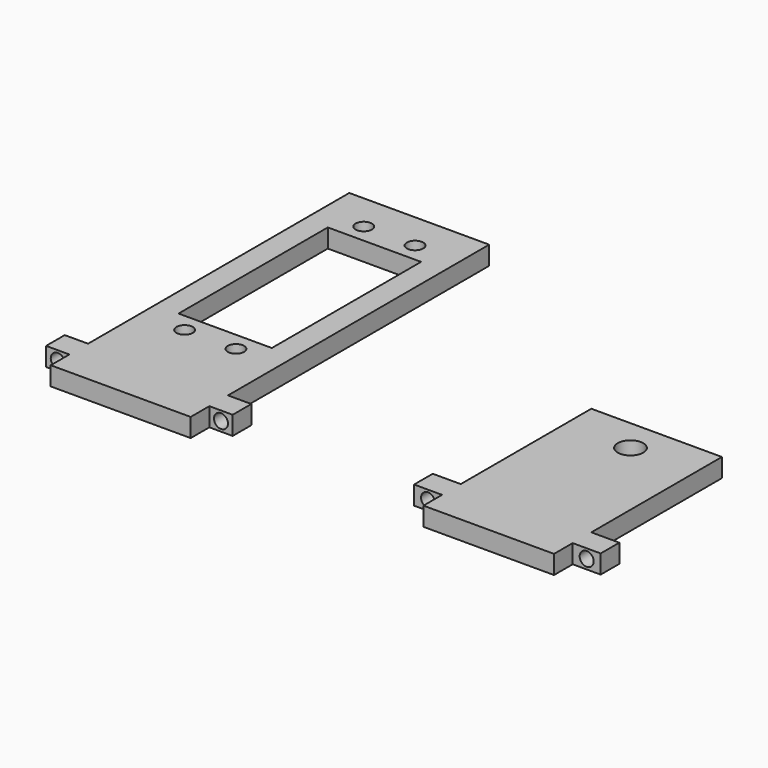
from build123d import *

# Parameters (mm, degrees)
F0_W            = 30
F0_H            = 70
F0_W_2          = 20
F0_H_2          = 40
F0_H_3          = 5
F0_W_3          = 5
F1_DEPTH        = 4
F4_D            = 3
F4_DEPTH        = 20
F4_TIP          = 0.9012909285
F4_ON_F3_D      = 3
F4_ON_F3_DEPTH  = 20
F4_ON_F3_TIP    = 0.9012909285
F5_D            = 3.5
F6_W            = 28
F6_H            = 5
F6_W_2          = 6
F6_H_2          = 35
F7_DEPTH        = 4
F10_D           = 3
F10_DEPTH       = 20
F10_TIP         = 0.9012909285
F10_ON_F9_D     = 3
F10_ON_F9_DEPTH = 20
F10_ON_F9_TIP   = 0.9012909285
F11_D           = 5.5
F11_DEPTH       = 20
F11_TIP         = 1.6523667023


with BuildPart() as f1:
    # F0 (on Top) → F1 (new body)
    with BuildSketch(Plane.XY):
        with Locations((-44.1506063403, 12.4535401911)):
            Rectangle(F0_W, F0_H)
        with Locations((-44.1506063403, 15.4535401911)):
            Rectangle(F0_W_2, F0_H_2, mode=Mode.SUBTRACT)
        with Locations((-44.1506063403, -25.0464598089)):
            Rectangle(F0_W, F0_H_3)
        with Locations((-61.6506063403, -25.0464598089)):
            Rectangle(F0_W_3, F0_H_3)
        with Locations((-44.1506063403, -30.0464598089)):
            Rectangle(F0_W, F0_H_3)
        with Locations((-26.6506063403, -25.0464598089)):
            Rectangle(F0_W_3, F0_H_3)
    extrude(amount=F1_DEPTH)

    # F4
    with Locations(Plane.XZ.offset(27.5464598089)):
        with Locations((-61.6506063403, 2)):
            Hole(F4_D / 2, depth=F4_DEPTH)
            with Locations((0, 0, -(F4_DEPTH + F4_TIP / 2))):  # 118° drill point
                Cone(0, F4_D / 2, F4_TIP, mode=Mode.SUBTRACT)

    # F4 on F3
    with Locations(Plane.XZ.offset(27.5464598089)):
        with Locations((-26.6506063403, 2)):
            Hole(F4_ON_F3_D / 2, depth=F4_ON_F3_DEPTH)
            with Locations((0, 0, -(F4_ON_F3_DEPTH + F4_ON_F3_TIP / 2))):  # 118° drill point
                Cone(0, F4_ON_F3_D / 2, F4_ON_F3_TIP, mode=Mode.SUBTRACT)

    # F5 (through all)
    with Locations(Plane(origin=(0, 0, 0), x_dir=(1, 0, 0), z_dir=(0, 0, -1))):
        with Locations((-49.6506063403, -39.4535401911), (-38.6506063403, -39.4535401911), (-49.6506063403, 8.5464598089), (-38.6506063403, 8.5464598089)):
            Hole(F5_D / 2)


with BuildPart() as f7:
    # F6 (on Top) → F7 (new body)
    with BuildSketch(Plane.XY):
        with Locations((35.3638151288, -30.8164446056)):
            Rectangle(F6_W, F6_H)
        with Locations((18.3638151288, -25.8164446056)):
            Rectangle(F6_W_2, F6_H)
        with Locations((35.3638151288, -25.8164446056)):
            Rectangle(F6_W, F6_H)
        with Locations((52.3638151288, -25.8164446056)):
            Rectangle(F6_W_2, F6_H)
        with Locations((35.3638151288, -5.8164446056)):
            Rectangle(F6_W, F6_H_2)
    extrude(amount=F7_DEPTH)

    # F10
    with Locations(Plane.XZ.offset(28.3164446056)):
        with Locations((18.3638151288, 2)):
            Hole(F10_D / 2, depth=F10_DEPTH)
            with Locations((0, 0, -(F10_DEPTH + F10_TIP / 2))):  # 118° drill point
                Cone(0, F10_D / 2, F10_TIP, mode=Mode.SUBTRACT)

    # F10 on F9
    with Locations(Plane.XZ.offset(28.3164446056)):
        with Locations((52.3638151288, 2)):
            Hole(F10_ON_F9_D / 2, depth=F10_ON_F9_DEPTH)
            with Locations((0, 0, -(F10_ON_F9_DEPTH + F10_ON_F9_TIP / 2))):  # 118° drill point
                Cone(0, F10_ON_F9_D / 2, F10_ON_F9_TIP, mode=Mode.SUBTRACT)

    # F11
    with Locations(Plane(origin=(0, 0, 0), x_dir=(1, 0, 0), z_dir=(0, 0, -1))):
        with Locations((35.3638151288, -4.6835553944)):
            Hole(F11_D / 2, depth=F11_DEPTH)
            with Locations((0, 0, -(F11_DEPTH + F11_TIP / 2))):  # 118° drill point
                Cone(0, F11_D / 2, F11_TIP, mode=Mode.SUBTRACT)


solid = Compound([f1.part, f7.part])
